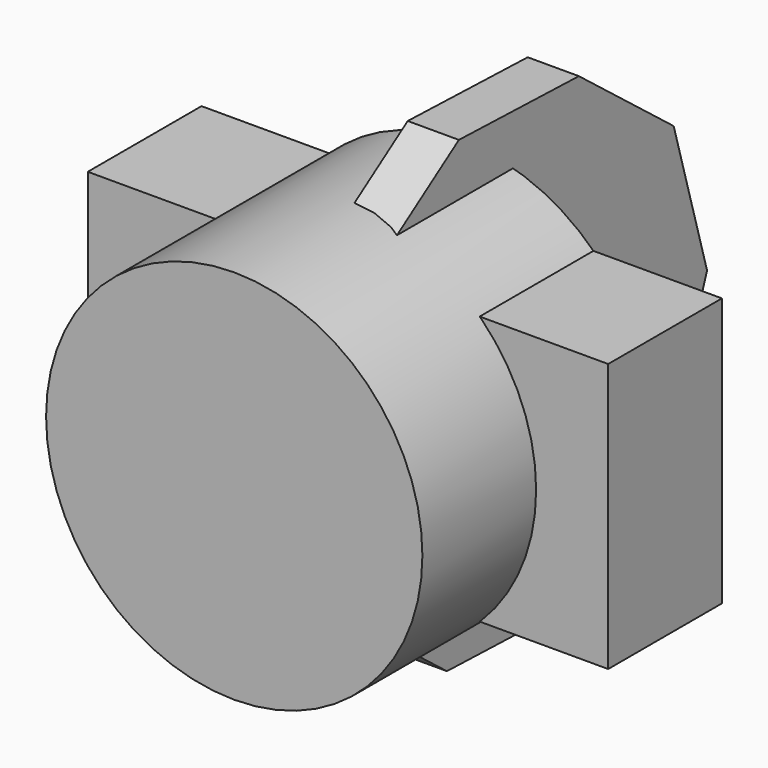
from build123d import *

# Parameters (mm, degrees)
F0_W     = 91.508382
F0_H     = 47.220674
F1_DEPTH = 25
F2_R     = 33.086933
F3_DEPTH = 50
F5_DEPTH = 9


with BuildPart() as f1:
    # F0 (on Front) → F1 (new body)
    with BuildSketch(Plane.XZ):
        Rectangle(F0_W, F0_H)
    extrude(amount=F1_DEPTH)


with BuildPart() as f3:
    # F2 (on Front) → F3 (new body)
    with BuildSketch(Plane.XZ):
        Circle(F2_R)
    extrude(amount=F3_DEPTH)


with BuildPart() as f5:
    # F4 (on Right) → F5 (new body)
    with BuildSketch(Plane.YZ):
        Polygon((42.677343, -1.382692), (35.339422, 23.966492), (14.503043, 40.16129), (-11.873006, 41.015841), (-33.71397, 26.203734), (-42.677343, 1.382692), (-35.339422, -23.966492), (-14.503043, -40.16129), (11.873006, -41.015841), (33.71397, -26.203734), align=None)
    extrude(amount=F5_DEPTH)


solid = Compound([f1.part, f3.part, f5.part])
